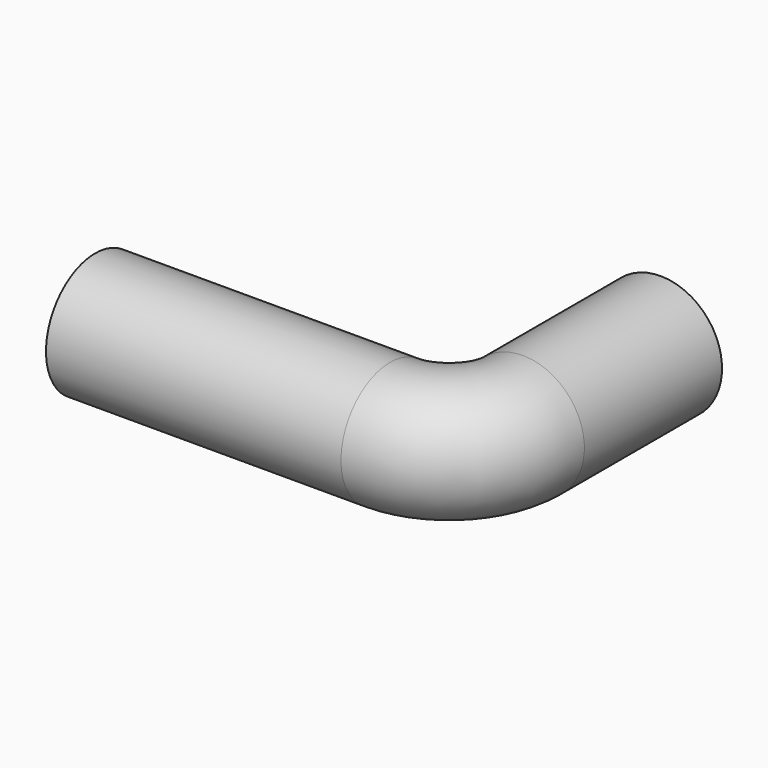
from build123d import *

# Parameters (mm, degrees)
F0_R = 0.25


with BuildPart() as f2:
    # F2: sweep along a path in F1
    with BuildLine(Plane.XY) as f2_path:
        Line((0, 0), (1.2, 0))
        ThreePointArc((1.2, 0), (1.4121320344, 0.0878679656), (1.5, 0.3))
        Line((1.5, 0.3), (1.5, 1))
    # F0 (on Right) → F2 (sweep)
    with BuildSketch(Plane.YZ):
        Circle(F0_R)
    sweep(path=f2_path.line)


solid = f2.part
